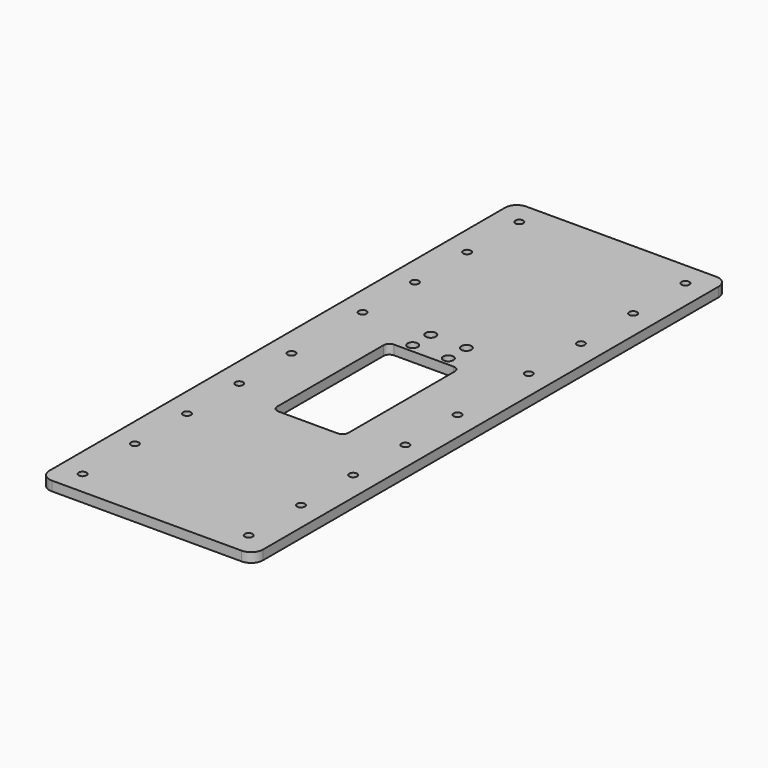
from build123d import *

# Parameters (mm, degrees)
SKETCH_R   = 4.3
SKETCH_R_2 = 3.3
PAD_DEPTH  = 8


with BuildPart() as part:
    # Sketch → Pad (new body)
    with BuildSketch(Plane.XY):
        with BuildLine():
            Line((180, 10), (180, 490))
            ThreePointArc((180, 490), (177.071068, 497.071068), (170, 500))
            Line((10, 500), (170, 500))
            ThreePointArc((10, 500), (2.928932, 497.071068), (0, 490))
            Line((0, 490), (0, 10))
            ThreePointArc((0, 10), (2.928932, 2.928932), (10, 0))
            Line((10, 0), (170, 0))
            ThreePointArc((170, 0), (177.071068, 2.928932), (180, 10))
        make_face()
        with Locations((75, 318)):
            Circle(SKETCH_R, mode=Mode.SUBTRACT)
        with Locations((105, 318)):
            Circle(SKETCH_R, mode=Mode.SUBTRACT)
        with Locations((105, 299)):
            Circle(SKETCH_R, mode=Mode.SUBTRACT)
        with Locations((75, 299)):
            Circle(SKETCH_R, mode=Mode.SUBTRACT)
        with Locations((20, 20)):
            Circle(SKETCH_R_2, mode=Mode.SUBTRACT)
        with Locations((20, 75)):
            Circle(SKETCH_R_2, mode=Mode.SUBTRACT)
        with Locations((20, 130)):
            Circle(SKETCH_R_2, mode=Mode.SUBTRACT)
        with Locations((20, 185)):
            Circle(SKETCH_R_2, mode=Mode.SUBTRACT)
        with Locations((20, 480)):
            Circle(SKETCH_R_2, mode=Mode.SUBTRACT)
        with Locations((20, 425)):
            Circle(SKETCH_R_2, mode=Mode.SUBTRACT)
        with Locations((20, 370)):
            Circle(SKETCH_R_2, mode=Mode.SUBTRACT)
        with Locations((20, 315)):
            Circle(SKETCH_R_2, mode=Mode.SUBTRACT)
        with Locations((20, 240)):
            Circle(SKETCH_R_2, mode=Mode.SUBTRACT)
        with Locations((160, 480)):
            Circle(SKETCH_R_2, mode=Mode.SUBTRACT)
        with Locations((160, 425)):
            Circle(SKETCH_R_2, mode=Mode.SUBTRACT)
        with Locations((160, 370)):
            Circle(SKETCH_R_2, mode=Mode.SUBTRACT)
        with Locations((160, 315)):
            Circle(SKETCH_R_2, mode=Mode.SUBTRACT)
        with Locations((160, 240)):
            Circle(SKETCH_R_2, mode=Mode.SUBTRACT)
        with Locations((160, 20)):
            Circle(SKETCH_R_2, mode=Mode.SUBTRACT)
        with Locations((160, 75)):
            Circle(SKETCH_R_2, mode=Mode.SUBTRACT)
        with Locations((160, 130)):
            Circle(SKETCH_R_2, mode=Mode.SUBTRACT)
        with Locations((160, 185)):
            Circle(SKETCH_R_2, mode=Mode.SUBTRACT)
        with BuildLine():
            Line((65, 170), (115, 170))
            ThreePointArc((115, 170), (118.535534, 171.464466), (120, 175))
            Line((120, 287), (120, 175))
            ThreePointArc((120, 287), (118.535534, 290.535534), (115, 292))
            Line((65, 292), (115, 292))
            ThreePointArc((65, 292), (61.464466, 290.535534), (60, 287))
            Line((60, 175), (60, 287))
            ThreePointArc((60, 175), (61.464466, 171.464466), (65, 170))
        make_face(mode=Mode.SUBTRACT)
    extrude(amount=PAD_DEPTH)


solid = part.part
